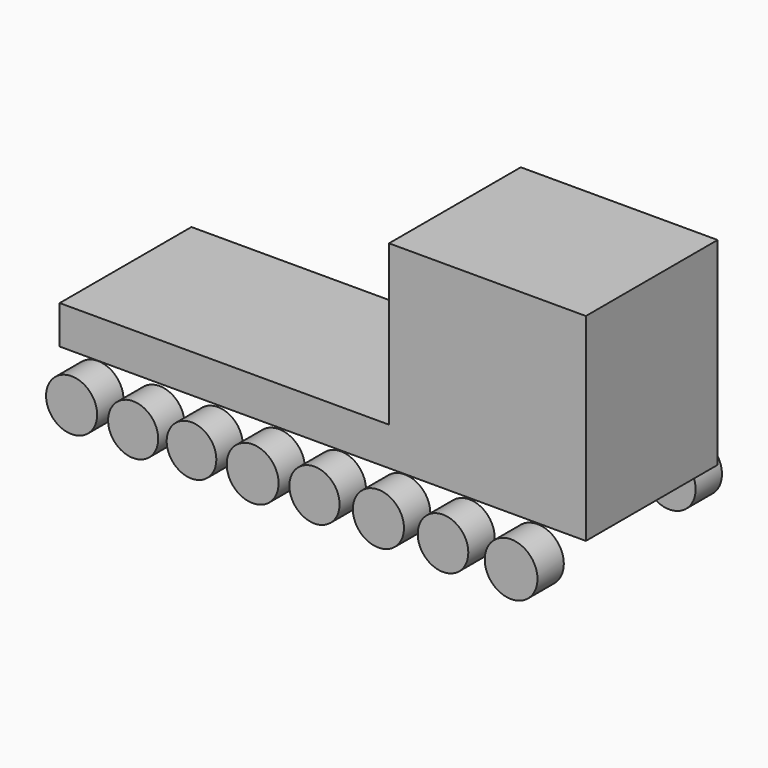
from build123d import *

# Parameters (mm, degrees)
F0_W     = 151.790403
F0_H     = 152.704806
F1_DEPTH = 127
F2_W     = 127
F2_H     = 29.550035
F3_DEPTH = 254
F4_R     = 19.709165
F6_DEPTH = 25.4
F5_R     = 19.319298
F5_R_2   = 19.147645
F5_R_3   = 20.0056
F5_R_4   = 19.35643
F5_R_5   = 19.701903
F5_R_6   = 19.504186
F5_R_7   = 20.333005
F7_DEPTH = 25.4
F8_R     = 20.283501
F8_R_2   = 19.767375
F8_R_3   = 20.368262
F8_R_4   = 19.080044
F8_R_5   = 20.112936
F8_R_6   = 19.6216
F8_R_7   = 19.080042
F8_R_8   = 18.011877
F9_DEPTH = 25.4


with BuildPart() as f1:
    # F0 (on Front) → F1 (new body)
    with BuildSketch(Plane.XZ):
        with Locations((-0.3048, 0)):
            Rectangle(F0_W, F0_H)
    extrude(amount=F1_DEPTH)

    # F2 (on face) → F3 (join)
    with BuildSketch(Plane(origin=(-76.200001, 0, 0), x_dir=(0, -1, 0), z_dir=(-1, 0, 0))):
        with Locations((63.5, -61.577385)):
            Rectangle(F2_W, F2_H)
    extrude(amount=F3_DEPTH)


with BuildPart() as f6:
    # F4 (on face) → F6 (new body)
    with BuildSketch(Plane.XZ.offset(127)):
        with Locations((-300.709605, -96.236154)):
            Circle(F4_R)
    extrude(amount=F6_DEPTH)


with BuildPart() as f7:
    # F5 (on face) → F7 (new body)
    with BuildSketch(Plane.XZ.offset(127)):
        with Locations((-253.233612, -97.393751)):
            Circle(F5_R)
        with Locations((-208.224639, -96.857928)):
            Circle(F5_R_2)
        with Locations((-161.072373, -97.393751)):
            Circle(F5_R_3)
        with Locations((-113.384277, -96.322112)):
            Circle(F5_R_4)
        with Locations((-64.088717, -96.322112)):
            Circle(F5_R_5)
        with Locations((-14.257341, -96.857928)):
            Circle(F5_R_6)
        with Locations((38.253129, -97.393751)):
            Circle(F5_R_7)
    extrude(amount=F7_DEPTH)


with BuildPart() as f9:
    # F8 (on face) → F9 (new body)
    with BuildSketch(Plane(origin=(0, 0, 0), x_dir=(-1, 0, 0), z_dir=(0, 1, 0))):
        with Locations((-38.348585, -98.465398)):
            Circle(F8_R)
        with Locations((14.16189, -97.393751)):
            Circle(F8_R_2)
        with Locations((63.993268, -96.857928)):
            Circle(F8_R_3)
        with Locations((113.288827, -96.322112)):
            Circle(F8_R_4)
        with Locations((160.976917, -97.393751)):
            Circle(F8_R_5)
        with Locations((208.129182, -96.857928)):
            Circle(F8_R_6)
        with Locations((253.138185, -96.857928)):
            Circle(F8_R_7)
        with Locations((301.897913, -96.322112)):
            Circle(F8_R_8)
    extrude(amount=F9_DEPTH)


solid = Compound([f1.part, f6.part, f7.part, f9.part])
